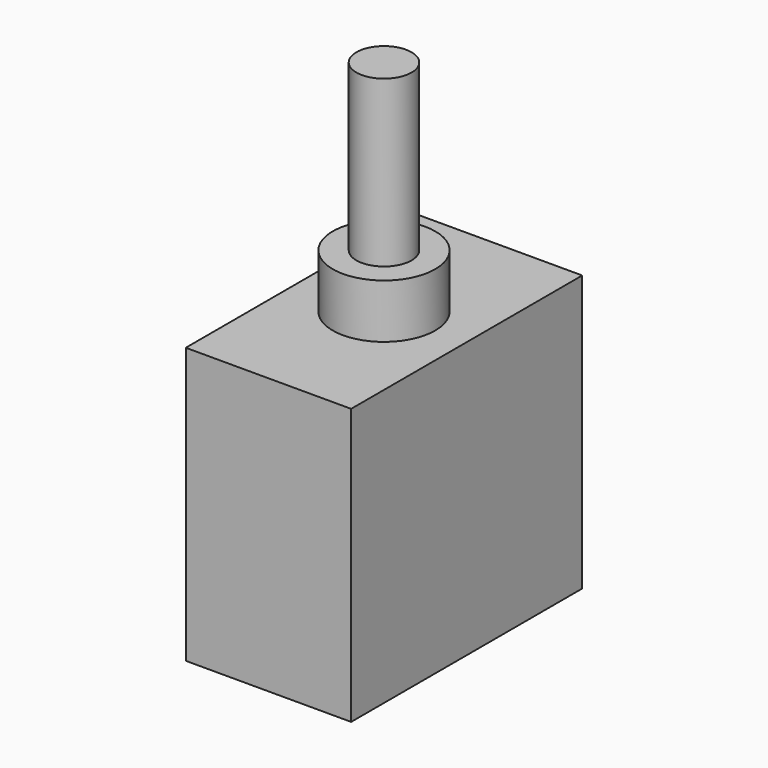
from build123d import *

# Parameters (mm, degrees)
F0_R     = 5.9055
F1_DEPTH = 6.223
F2_R     = 3.175
F3_DEPTH = 19.05
F5_DEPTH = 31.75


with BuildPart() as f1:
    # F0 (on Top) → F1 (new body)
    with BuildSketch(Plane.XY):
        Circle(F0_R)
    extrude(amount=F1_DEPTH)

    # F2 (on face) → F3 (join)
    with BuildSketch(Plane.XY.offset(6.223)):
        Circle(F2_R)
    extrude(amount=F3_DEPTH)

    # F4 (on face) → F5 (join)
    with BuildSketch(Plane(origin=(0, 0, 0), x_dir=(1, 0, 0), z_dir=(0, 0, -1))):
        Polygon((9.525, -16.637), (-9.525, 16.637), (-9.525, -16.637), align=None)
        Polygon((9.525, 16.637), (-9.525, 16.637), (9.525, -16.637), align=None)
    extrude(amount=F5_DEPTH)


solid = f1.part
